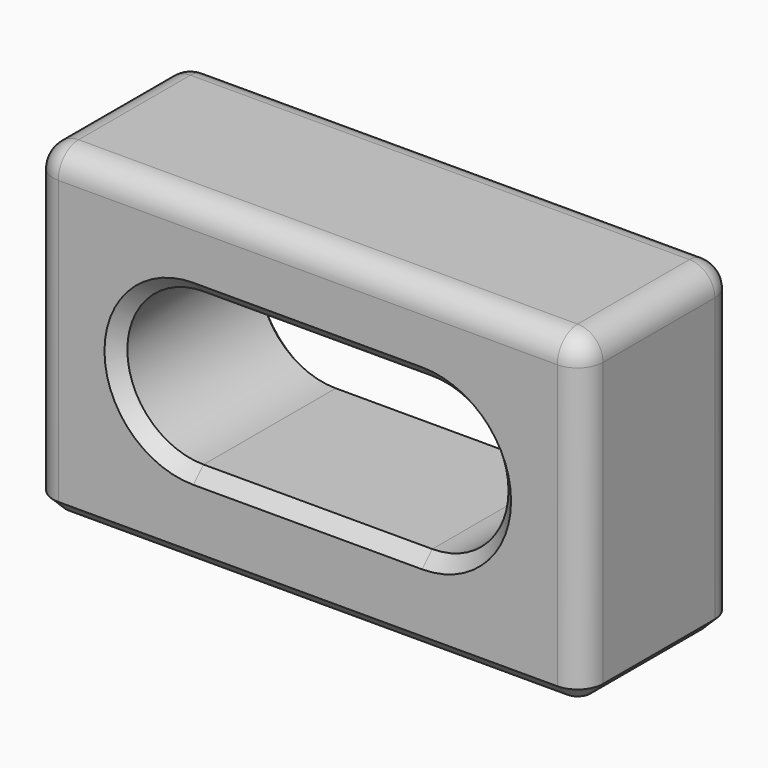
from build123d import *

# Parameters (mm, degrees)
SKETCH004_W     = 21.638793
SKETCH004_H     = 12.638793
PAD003_DEPTH    = 7.5
FILLET002_R     = 1
CHAMFER003_SIZE = 0.5
CHAMFER004_SIZE = 0.5


with BuildPart() as part:
    # Sketch004 → Pad003 (new body)
    with BuildSketch(Plane.XZ):
        with Locations((-10.819396, 6.319396)):
            Rectangle(SKETCH004_W, SKETCH004_H)
        with BuildLine():
            ThreePointArc((-6.319396, 3.319396), (-3.319396, 6.319396), (-6.319396, 9.319396))
            Line((-6.319396, 9.319396), (-15.319396, 9.319396))
            ThreePointArc((-15.319396, 9.319396), (-18.319396, 6.319396), (-15.319396, 3.319396))
            Line((-6.319396, 3.319396), (-15.319396, 3.319396))
        make_face(mode=Mode.SUBTRACT)
    extrude(amount=PAD003_DEPTH)

    # Fillet002
    fillet002_edges = [part.edges().sort_by_distance(p)[0] for p in [
        (-21.638793, 0, 6.319396),
        (-10.819396, 0, 12.638793),
        (-10.819396, -7.5, 12.638793),
        (-21.638793, -3.75, 12.638793),
        (-21.638793, -7.5, 6.319396),
        (0, 0, 6.319396),
        (0, -3.75, 12.638793),
        (0, -7.5, 6.319396),
    ]]
    fillet(fillet002_edges, radius=FILLET002_R)

    # Chamfer003
    chamfer003_edges = [part.edges().sort_by_distance(p)[0] for p in [
        (-10.819396, 0, 0),
    ]]
    chamfer(chamfer003_edges, length=CHAMFER003_SIZE)

    # Chamfer004
    chamfer004_edges = [part.edges().sort_by_distance(p)[0] for p in [
        (-10.819396, 0, 3.319396),
        (-10.819396, -7.5, 3.319396),
    ]]
    chamfer(chamfer004_edges, length=CHAMFER004_SIZE)


with BuildPart() as part_1:
    # Body004 placement: moved
    add(part.part.moved(Location((25.42, 22.43, -4.7))))


solid = part_1.part
